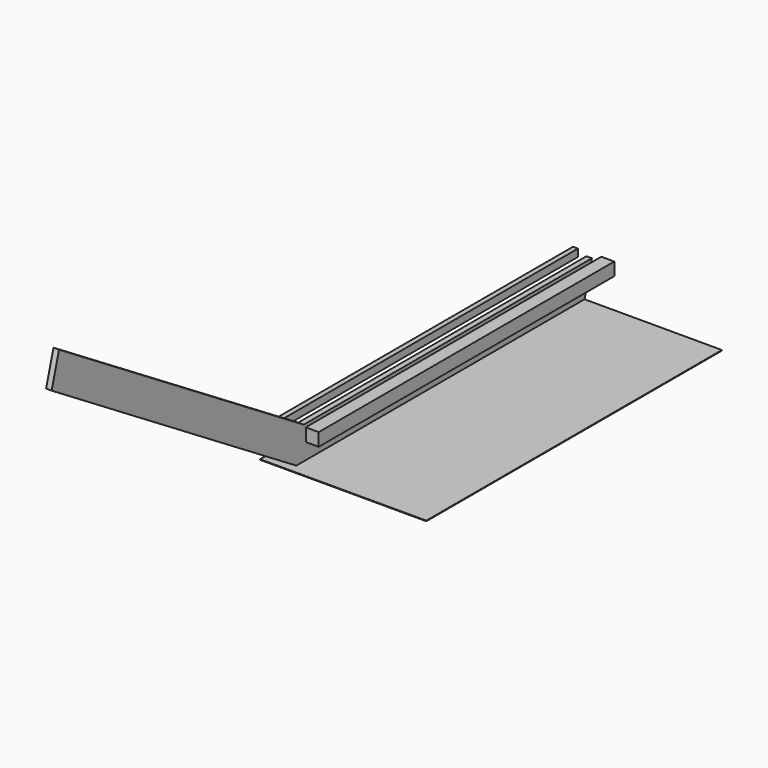
from build123d import *

# Parameters (mm, degrees)
F0_W     = 70
F0_H     = 70
F1_DEPTH = 2000
F2_W     = 30
F2_H     = 175
F3_DEPTH = 2000
F4_W     = 27
F4_H     = 40
F5_DEPTH = 2000
F6_W     = 900
F6_H     = 3
F7_DEPTH = 2000
F9_DEPTH = 30


with BuildPart() as f1:
    # F0 (on Front) → F1 (new body)
    with BuildSketch(Plane.XZ):
        with Locations((35, 35)):
            Rectangle(F0_W, F0_H)
    extrude(amount=F1_DEPTH)


with BuildPart() as f3:
    # F2 (on Front) → F3 (new body)
    with BuildSketch(Plane.XZ):
        with Locations((-66.078197351, -41.5524188429)):
            Rectangle(F2_W, F2_H)
    extrude(amount=F3_DEPTH)

    # F8 (on face) → F9 (cut, through all)
    with BuildSketch(Plane.YZ.offset(-51.078197351)):
        Polygon((0, 45.9475811571), (-50, -129.0524188429), (0, -129.0524188429), align=None)
        Polygon((-2000, 45.9475811571), (-2000, -129.0524188429), (-1950, 45.9475811571), align=None)
    extrude(amount=-F9_DEPTH, mode=Mode.SUBTRACT)

    # F10: F3 across face


with BuildPart() as f5:
    # F4 (on Front) → F5 (new body)
    with BuildSketch(Plane.XZ):
        with Locations((-140.1035415985, 47.6421695203)):
            Rectangle(F4_W, F4_H)
    extrude(amount=F5_DEPTH)


with BuildPart() as f7:
    # F6 (on Front) → F7 (new body)
    with BuildSketch(Plane.XZ):
        with Locations((202.6055902243, -163.8198691128)):
            Rectangle(F6_W, F6_H)
    extrude(amount=F7_DEPTH)


with BuildPart() as f3_1:
    add(f3.part)
    add(f3.part.mirror(Plane(origin=(-66.078197351, -1975, -41.5524188429), x_dir=(1, 0, 0), z_dir=(0, -0.9615239476, 0.2747211279))))


solid = Compound([f1.part, f5.part, f7.part, f3_1.part])
